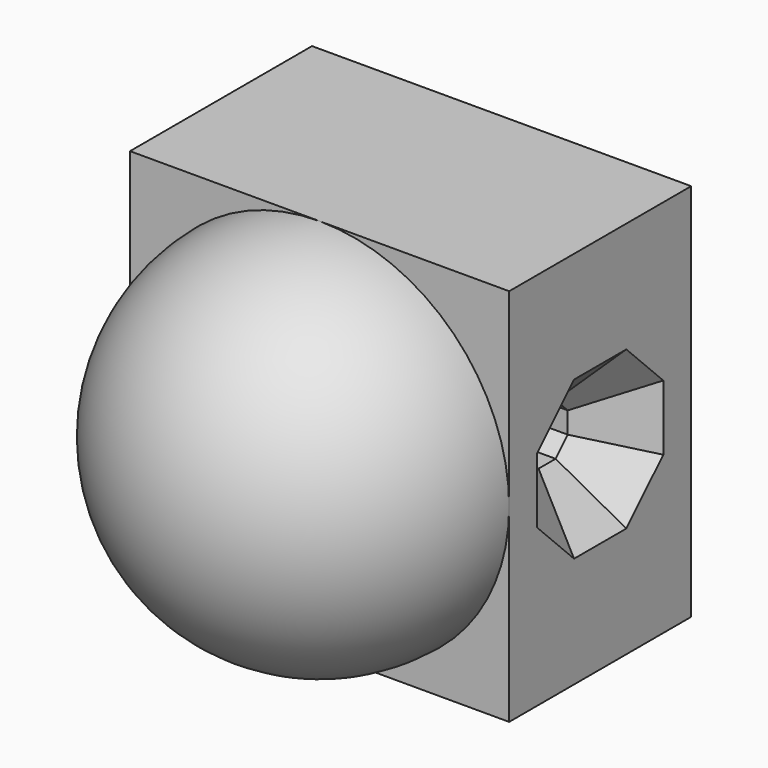
from build123d import *

# Parameters (mm, degrees)
BOX_W        = 30
BOX_H        = 30
BOX_DEPTH    = 30
SKETCH_W     = 25
SKETCH_H     = 25
SKETCH_W_2   = 13.45
SKETCH_H_2   = 13.45
PAD_DEPTH    = 15
POCKET_DEPTH = 6
CHAMFER_SIZE = 3.5


with BuildPart() as cube:
    # Box → Box (new body)
    with BuildSketch(Plane(origin=(-15, 0, -15), x_dir=(1, 0, 0), z_dir=(0, 0, 1))):
        with Locations((15, 15)):
            Rectangle(BOX_W, BOX_H)
    extrude(amount=BOX_DEPTH)


with BuildPart() as cut:
    # Sphere → Sphere (revolve)
    with BuildSketch(Plane.XZ):
        with BuildLine():
            ThreePointArc((0, -12.5), (12.5, 0), (0, 12.5))
            Line((0, 12.5), (0, -12.5))
        make_face()
    revolve(axis=Axis((0, 0, 0), (0, 0, 1)))

    # Cut: cut Cube
    add(cube.part, mode=Mode.SUBTRACT)


with BuildPart() as body:
    # Sketch → Pad (new body)
    with BuildSketch(Plane.XZ):
        Rectangle(SKETCH_W, SKETCH_H)
        Rectangle(SKETCH_W_2, SKETCH_H_2, mode=Mode.SUBTRACT)
    extrude(amount=-PAD_DEPTH)

    # Sketch001 (on Face4 of Pad) → Pocket (cut)
    with BuildSketch(Plane(origin=(12.5, 0, 0), x_dir=(0, 0, 1), z_dir=(1, 0, 0))):
        Polygon((1.7, -8.204163), (1.7, -6.795837), (0.704163, -5.8), (-0.704163, -5.8), (-1.7, -6.795837), (-1.7, -8.204163), (-0.704163, -9.2), (0.704163, -9.2), align=None)
    extrude(amount=-POCKET_DEPTH, mode=Mode.SUBTRACT)

    # Chamfer
    chamfer_edges = [body.edges().sort_by_distance(p)[0] for p in [
        (12.5, 6.297918, 1.202082),
        (12.5, 7.5, 1.7),
        (12.5, 8.702082, 1.202082),
        (12.5, 9.2, 0),
        (12.5, 8.702082, -1.202082),
        (12.5, 7.5, -1.7),
        (12.5, 6.297918, -1.202082),
        (12.5, 5.8, 0),
    ]]
    chamfer(chamfer_edges, length=CHAMFER_SIZE)


solid = Compound([cut.part, body.part])
